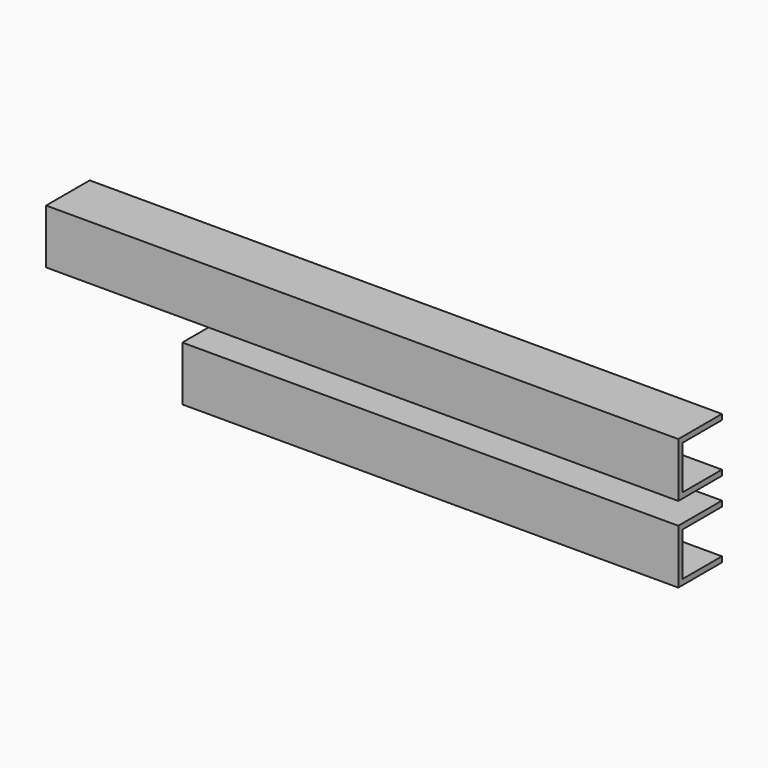
from build123d import *

# Parameters (mm, degrees)
F0_W     = 368.3
F0_H     = 3.175
F0_H_2   = 25.4
F1_DEPTH = 31.75
F2_DEPTH = 28.575
F3_W     = 288.925
F3_H     = 25.4
F3_H_2   = 3.175
F4_DEPTH = 31.75
F5_DEPTH = 28.575


with BuildPart() as f1:
    # F0 (on Front) → F1 (new body)
    with BuildSketch(Plane.XZ):
        with Locations((-184.15, 30.1625)):
            Rectangle(F0_W, F0_H)
        with Locations((-184.15, 15.875)):
            Rectangle(F0_W, F0_H_2)
        with Locations((-184.15, 1.5875)):
            Rectangle(F0_W, F0_H)
    extrude(amount=F1_DEPTH)

    # F0 (on Front) → F2 (cut)
    with BuildSketch(Plane.XZ):
        with Locations((-184.15, 15.875)):
            Rectangle(F0_W, F0_H_2)
    extrude(amount=F2_DEPTH, mode=Mode.SUBTRACT)


with BuildPart() as f4:
    # F3 (on Front) → F4 (new body)
    with BuildSketch(Plane.XZ):
        with Locations((-144.4625, -28.575)):
            Rectangle(F3_W, F3_H)
        with Locations((-144.4625, -14.2875)):
            Rectangle(F3_W, F3_H_2)
        with Locations((-144.4625, -42.8625)):
            Rectangle(F3_W, F3_H_2)
    extrude(amount=F4_DEPTH)

    # F3 (on Front) → F5 (cut)
    with BuildSketch(Plane.XZ):
        with Locations((-144.4625, -28.575)):
            Rectangle(F3_W, F3_H)
    extrude(amount=F5_DEPTH, mode=Mode.SUBTRACT)


solid = Compound([f1.part, f4.part])
